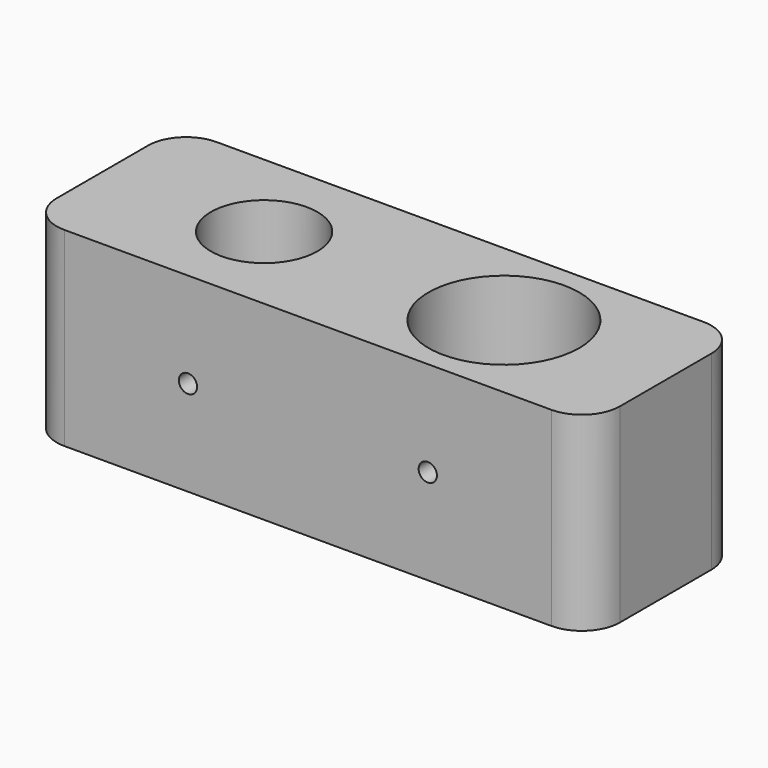
from build123d import *

# Parameters (mm, degrees)
F0_W     = 74
F0_H     = 25
F0_R     = 7
F0_R_2   = 9.906
F1_DEPTH = 25
F3_D     = 2.4
F3_DEPTH = 10
F3_TIP   = 0.7210327428
F4_R     = 5
F5_R     = 5.5
F5_R_2   = 4.2
F6_DEPTH = 10


with BuildPart() as f1:
    # F0 (on Top) → F1 (new body)
    with BuildSketch(Plane.XY):
        Rectangle(F0_W, F0_H)
        with Locations((-15.75, 0)):
            Circle(F0_R, mode=Mode.SUBTRACT)
        with Locations((15.75, 0)):
            Circle(F0_R_2, mode=Mode.SUBTRACT)
    extrude(amount=F1_DEPTH)

    # F3
    with Locations(Plane.XZ.offset(12.5)):
        with Locations((15.752, 12.5), (-15.752, 12.5)):
            Hole(F3_D / 2, depth=F3_DEPTH)
            with Locations((0, 0, -(F3_DEPTH + F3_TIP / 2))):  # 118° drill point
                Cone(0, F3_D / 2, F3_TIP, mode=Mode.SUBTRACT)

    # F4
    f4_edges = [f1.edges().sort_by_distance(p)[0] for p in [
        (-37, -12.5, 12.5),
        (37, -12.5, 12.5),
        (37, 12.5, 12.5),
        (-37, 12.5, 12.5),
    ]]
    fillet(f4_edges, radius=F4_R)

    # F5 (on face) → F6 (join)
    with BuildSketch(Plane(origin=(0, 12.5, 0), x_dir=(-1, 0, 0), z_dir=(0, 1, 0))):
        with Locations((-16, 12.5)):
            Circle(F5_R)
        with Locations((-16, 12.5)):
            Circle(F5_R_2, mode=Mode.SUBTRACT)
        with Locations((16, 12.5)):
            Circle(F5_R)
        with Locations((16, 12.5)):
            Circle(F5_R_2, mode=Mode.SUBTRACT)
    extrude(amount=F6_DEPTH)


solid = f1.part
